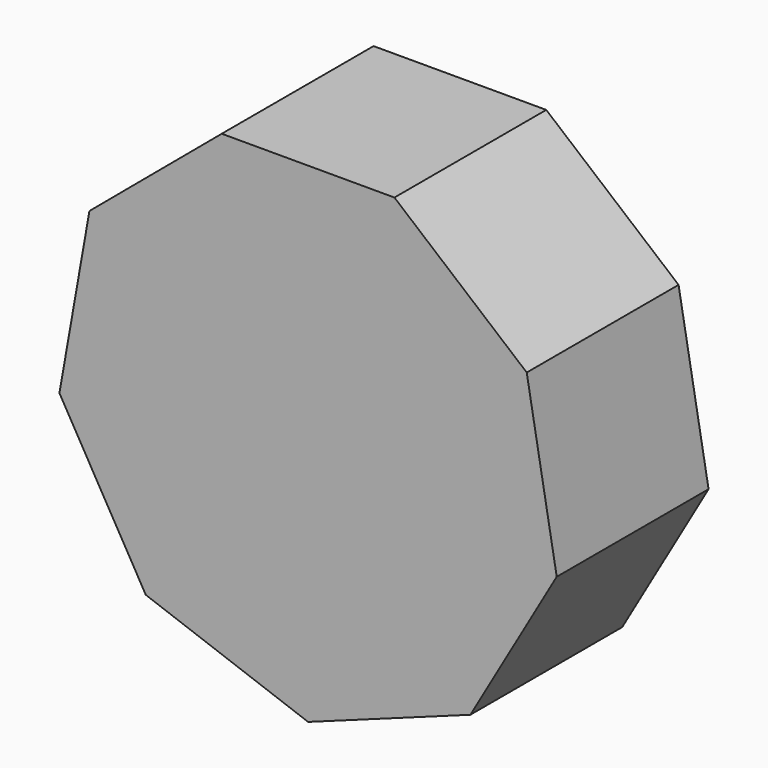
from build123d import *

# Parameters (mm, degrees)
F1_DEPTH = 25.4


with BuildPart() as f1:
    # F0 (on Front) → F1 (new body)
    with BuildSketch(Plane.XZ):
        Polygon((0, 31.75), (-11.556055, 31.75), (-29.260958, 16.893822), (-33.274334, -5.867163), (-21.718279, -25.882837), (0, -33.787644), (21.718279, -25.882837), (33.274334, -5.867163), (29.260958, 16.893822), (11.556055, 31.75), align=None)
        Polygon((0, 31.75), (-11.556055, 31.75), (-29.260958, 16.893822), (-33.274334, -5.867163), (-21.718279, -25.882837), (0, -33.787644), (21.718279, -25.882837), (33.274334, -5.867163), (29.260958, 16.893822), (11.556055, 31.75), align=None)
    extrude(amount=F1_DEPTH)


solid = f1.part
